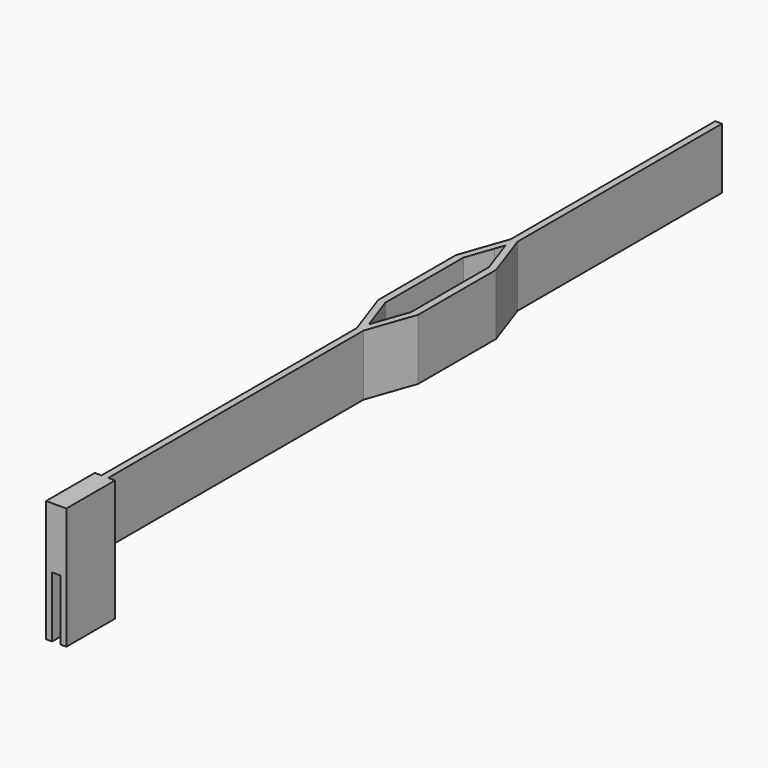
from build123d import *

# Parameters (mm, degrees)
F1_DEPTH = 4.5
F2_W     = 0.5
F2_H     = 4.5
F3_DEPTH = 9
F4_W     = 0.05
F4_H     = 4.5
F5_DEPTH = 25


with BuildPart() as f1:
    # F0 (on Top) → F1 (new body)
    with BuildSketch(Plane.XY):
        Polygon((-0.469149, 27.706926), (-0.969149, 27.706926), (-0.969149, 8.820471), (-2.198889, 5.306926), (-2.198889, -1.893074), (-0.969149, -5.406618), (-0.969149, -33.493074), (-0.469149, -33.493074), (-0.469149, -5.406618), (0.760592, -1.893074), (0.760592, 5.306926), (-0.469149, 8.820471), align=None)
        Polygon((-1.669149, -1.893074), (-1.669149, 5.306926), (-0.969149, 7.306926), (-0.719149, 8.021212), (-0.469149, 7.306926), (0.230851, 5.306926), (0.230851, -1.893074), (-0.469149, -3.893074), (-0.719149, -4.607359), (-0.969149, -3.893074), align=None, mode=Mode.SUBTRACT)
    extrude(amount=F1_DEPTH)

    # F2 (on face) → F3 (join)
    with BuildSketch(Plane.XY.offset(4.5)):
        with Locations((-1.219149, -31.243074)):
            Rectangle(F2_W, F2_H)
        with Locations((-0.219149, -31.243074)):
            Rectangle(F2_W, F2_H)
    extrude(amount=-F3_DEPTH)

    # F4 (on face) → F5 (cut)
    with BuildSketch(Plane(origin=(0, 0, 0), x_dir=(1, 0, 0), z_dir=(0, 0, -1))):
        with Locations((-0.994149, 31.243074)):
            Rectangle(F4_W, F4_H)
        with Locations((-0.444149, 31.243074)):
            Rectangle(F4_W, F4_H)
    extrude(amount=F5_DEPTH, mode=Mode.SUBTRACT)


solid = f1.part
